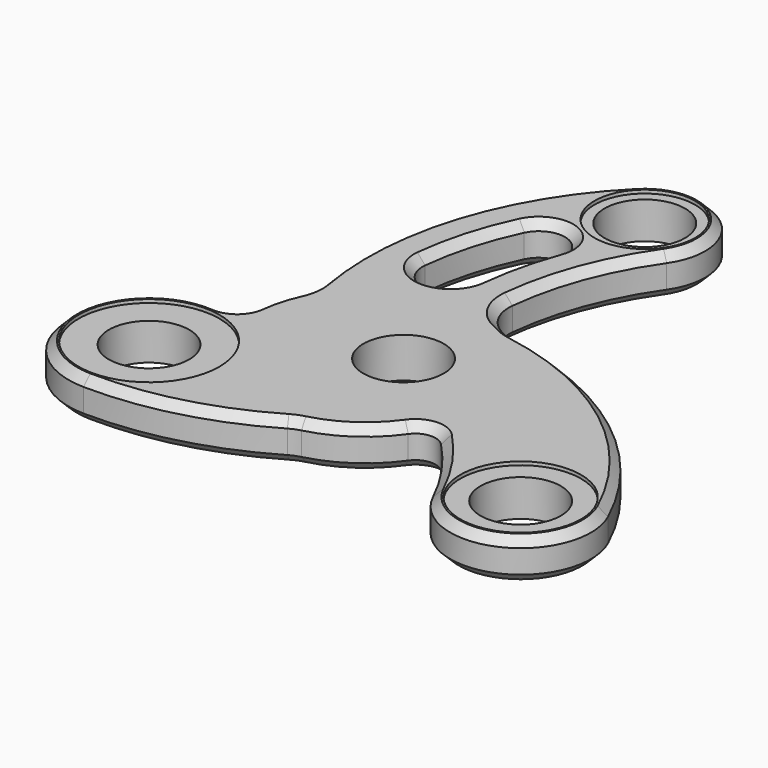
from build123d import *

# Parameters (mm, degrees)
F1_R      = 6.35
F2_DEPTH  = 3.175
F3_R      = 6.35
F4_DEPTH  = 6.351
F5_R      = 6.35
F6_R      = 3.175
F7_R      = 11.1125
F7_R_2    = 9.525
F7_R_3    = 7.9375
F8_DEPTH  = 0.53975
F11_DEPTH = 25.4
F12_SIZE  = 1.3335


with BuildPart() as f2:
    # F1 (on Top) → F2 (new body, symmetric)
    with BuildSketch(Plane.XY):
        with BuildLine():
            ThreePointArc((-0.168710733, 16.2535201518), (1.7967030303, 29.8395650927), (7.8138383534, 42.1780232985))
            ThreePointArc((7.8138383534, 42.1780232985), (6.1225519823, 54.9215733207), (-6.7210836767, 54.3742710132))
            ThreePointArc((-6.7210836767, 54.3742710132), (-19.6290735416, 32.6508588295), (-20.4740110981, 7.3959797012))
            ThreePointArc((-20.4740110981, 7.3959797012), (-22.6457174108, 2.0757674769), (-23.1321493543, -3.6499945148))
            ThreePointArc((-23.1321493543, -3.6499945148), (-24.3075600188, -3.5087608054), (-25.4787925595, -3.3362744979))
            ThreePointArc((-25.4787925595, -3.3362744979), (-40.1479792359, -14.7681220671), (-27.6867699643, -28.5735717187))
            ThreePointArc((-27.6867699643, -28.5735717187), (-13.4568579615, -26.7614387597), (-0.300857561, -21.0435829613))
            ThreePointArc((-0.300857561, -21.0435829613), (7.8163915703, -17.2243931464), (13.2856838039, -10.1136416555))
            ThreePointArc((13.2856838039, -10.1136416555), (19.5634681844, -16.7944756929), (24.337196584, -24.6210737617))
            ThreePointArc((24.337196584, -24.6210737617), (39.0667286463, -29.9150952834), (44.4792335839, -15.2286876578))
            ThreePointArc((44.4792335839, -15.2286876578), (28.8065675228, 4.269400985), (5.72810807, 13.9230340561))
            ThreePointArc((5.72810807, 13.9230340561), (2.8773398413, 15.3353381376), (-0.168710733, 16.2535201518))
        make_face()
        Circle(F1_R, mode=Mode.SUBTRACT)
    extrude(amount=F2_DEPTH, both=True)

    # F3 (on face) → F4 (cut, through all)
    with BuildSketch(Plane.XY.offset(3.175)):
        with Locations((0, 47.625)):
            Circle(F3_R)
        with Locations((34.3703832127, -19.84375)):
            Circle(F3_R)
        with Locations((-27.4963065702, -15.875)):
            Circle(F3_R)
    extrude(amount=-F4_DEPTH, mode=Mode.SUBTRACT)

    # F5
    f5_edges = [f2.edges().sort_by_distance(p)[0] for p in [
        (-20.474011, 7.39598, 0),
        (-0.168711, 16.25352, 0),
        (5.728108, 13.923034, 0),
        (-0.300858, -21.043583, 0),
    ]]
    fillet(f5_edges, radius=F5_R)

    # F6
    f6_edges = [f2.edges().sort_by_distance(p)[0] for p in [
        (13.285684, -10.113642, 0),
        (-23.132149, -3.649995, 0),
    ]]
    fillet(f6_edges, radius=F6_R)

    # F7 (on face) → F8 (cut)
    with BuildSketch(Plane.XY.offset(3.175)):
        with Locations((-27.4963065702, -15.875)):
            Circle(F7_R)
        with Locations((34.3703832127, -19.84375)):
            Circle(F7_R_2)
        with Locations((0, 47.625)):
            Circle(F7_R_3)
    extrude(amount=-F8_DEPTH, mode=Mode.SUBTRACT)

    # F10 (on face) → F11 (cut)
    with BuildSketch(Plane.XY.offset(3.175)):
        with BuildLine():
            ThreePointArc((-10.9775403861, 37.5513992072), (-13.6403456115, 30.5006059619), (-15.0736581613, 23.1012930078))
            ThreePointArc((-15.0736581613, 23.1012930078), (-11.1261361584, 18.2091441919), (-6.2339873425, 22.1566661948))
            ThreePointArc((-6.2339873425, 22.1566661948), (-5.1843883194, 28.3376957326), (-3.3814010551, 34.3423623497))
            ThreePointArc((-3.3814010551, 34.3423623497), (-5.6475239326, 39.5731654756), (-10.9775403861, 37.5513992072))
        make_face()
    extrude(amount=-F11_DEPTH, mode=Mode.SUBTRACT)

    # F12
    f12_edges = [f2.edges().sort_by_distance(p)[0] for p in [
        (-13.91632, -26.88546, 3.175),
        (-13.91632, -26.88546, -3.175),
        (-13.640346, 30.500606, 3.175),
        (-5.647524, 39.573165, -3.175),
    ]]
    chamfer(f12_edges, length=F12_SIZE)


solid = f2.part
